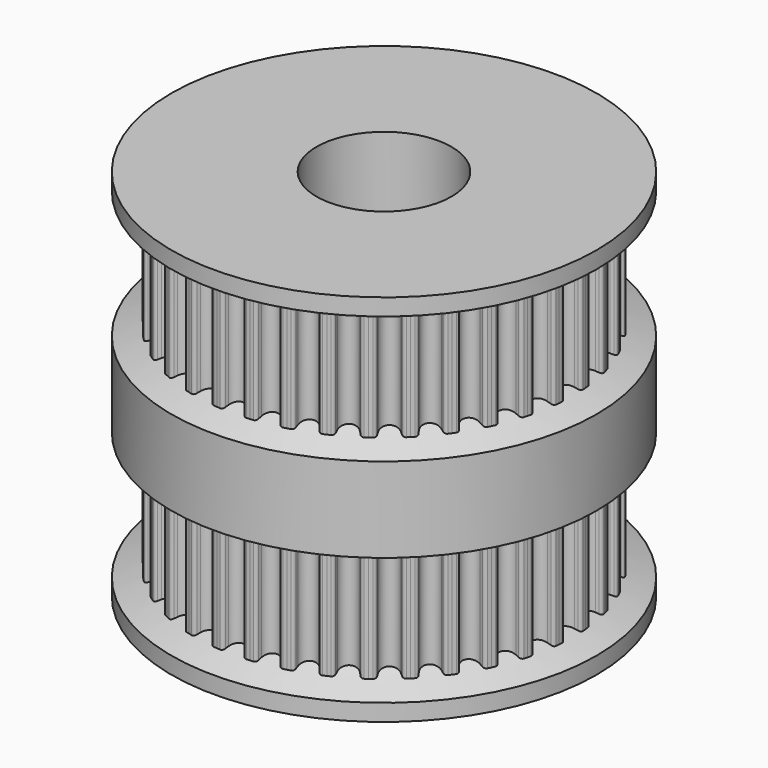
from build123d import *

# Parameters (mm, degrees)
F3_DEPTH = 11
F4_COUNT = 36
F7_R     = 4
F8_DEPTH = 50


with BuildPart() as f3:
    # F2 (on Top) → F3 (new body, symmetric)
    with BuildSketch(Plane.XY):
        with BuildLine():
            Line((0.9112268782, 10.4153708779), (0.9765936853, 11.1625169015))
            ThreePointArc((0.9765936853, 11.1625169015), (0.8760599377, 11.1708566273), (0.7754551833, 11.1782909275))
            ThreePointArc((0.7754551833, 11.1782909275), (0.6517529274, 11.1425545172), (0.5802680874, 11.0354599011))
            ThreePointArc((0.5802680874, 11.0354599011), (0.558049517, 10.9474029924), (0.5342352689, 10.859764156))
            ThreePointArc((0.5342352689, 10.859764156), (0.3350802744, 10.56772375), (0, 10.4551559026))
            ThreePointArc((0, 10.4551559026), (-0.3350802744, 10.56772375), (-0.5342352689, 10.859764156))
            ThreePointArc((-0.5342352689, 10.859764156), (-0.558049517, 10.9474029924), (-0.5802680874, 11.0354599011))
            ThreePointArc((-0.5802680874, 11.0354599011), (-0.6517529274, 11.1425545172), (-0.7754551833, 11.1782909275))
            ThreePointArc((-0.7754551833, 11.1782909275), (-0.8760599377, 11.1708566273), (-0.9765936853, 11.1625169015))
            Line((-0.9765936853, 11.1625169015), (-0.9112268782, 10.4153708779))
            Line((-0.9112268782, 10.4153708779), (0, 0))
            Line((0, 0), (0.9112268782, 10.4153708779))
        make_face()
        with BuildLine():
            Line((0.9112268782, 10.4153708779), (0.9765936853, 11.1625169015))
            ThreePointArc((0.9765936853, 11.1625169015), (0.8760599377, 11.1708566273), (0.7754551833, 11.1782909275))
            ThreePointArc((0.7754551833, 11.1782909275), (0.6517529274, 11.1425545172), (0.5802680874, 11.0354599011))
            ThreePointArc((0.5802680874, 11.0354599011), (0.558049517, 10.9474029924), (0.5342352689, 10.859764156))
            ThreePointArc((0.5342352689, 10.859764156), (0.3350802744, 10.56772375), (0, 10.4551559026))
            ThreePointArc((0, 10.4551559026), (-0.3350802744, 10.56772375), (-0.5342352689, 10.859764156))
            ThreePointArc((-0.5342352689, 10.859764156), (-0.558049517, 10.9474029924), (-0.5802680874, 11.0354599011))
            ThreePointArc((-0.5802680874, 11.0354599011), (-0.6517529274, 11.1425545172), (-0.7754551833, 11.1782909275))
            ThreePointArc((-0.7754551833, 11.1782909275), (-0.8760599377, 11.1708566273), (-0.9765936853, 11.1625169015))
            Line((-0.9765936853, 11.1625169015), (-0.9112268782, 10.4153708779))
            Line((-0.9112268782, 10.4153708779), (0, 0))
            Line((0, 0), (0.9112268782, 10.4153708779))
        make_face()
        with BuildLine():
            Line((0.9112268782, 10.4153708779), (0.9765936853, 11.1625169015))
            ThreePointArc((0.9765936853, 11.1625169015), (0.8760599377, 11.1708566273), (0.7754551833, 11.1782909275))
            ThreePointArc((0.7754551833, 11.1782909275), (0.6517529274, 11.1425545172), (0.5802680874, 11.0354599011))
            ThreePointArc((0.5802680874, 11.0354599011), (0.558049517, 10.9474029924), (0.5342352689, 10.859764156))
            ThreePointArc((0.5342352689, 10.859764156), (0.3350802744, 10.56772375), (0, 10.4551559026))
            ThreePointArc((0, 10.4551559026), (-0.3350802744, 10.56772375), (-0.5342352689, 10.859764156))
            ThreePointArc((-0.5342352689, 10.859764156), (-0.558049517, 10.9474029924), (-0.5802680874, 11.0354599011))
            ThreePointArc((-0.5802680874, 11.0354599011), (-0.6517529274, 11.1425545172), (-0.7754551833, 11.1782909275))
            ThreePointArc((-0.7754551833, 11.1782909275), (-0.8760599377, 11.1708566273), (-0.9765936853, 11.1625169015))
            Line((-0.9765936853, 11.1625169015), (-0.9112268782, 10.4153708779))
            Line((-0.9112268782, 10.4153708779), (0, 0))
            Line((0, 0), (0.9112268782, 10.4153708779))
        make_face()
    extrude(amount=F3_DEPTH, both=True)

    # F4: F3 ×36 about axis
    f4_axis = Axis((0, 0, 0), (0, 0, -1))


with BuildPart() as f3_1:
    add(f3.part)
    for i in range(1, F4_COUNT):
        add(f3.part.rotate(f4_axis, i * 360 / F4_COUNT))

    # F5 (on Front) → F6 (revolve)
    with BuildSketch(Plane.XZ):
        Polygon((12.6050714929, 11), (0, 11), (0, 9.217494719), (10.4551559026, 9.217494719), (12.6050714929, 10), align=None)
        Polygon((10.4551559026, 3.217494719), (0, 3.217494719), (0, -3.382505281), (10.4551559026, -3.382505281), (12.6050714929, -2.6), (12.6050714929, 2.4349894379), align=None)
        Polygon((10.4551559026, -9.382505281), (0, -9.382505281), (0, -11.1650105621), (12.6050714929, -11.1650105621), (12.6050714929, -10.1650105621), align=None)
    revolve(axis=Axis((0, 0, -0.082505281), (0, 0, 1)))

    # F7 (on Top) → F8 (cut, symmetric)
    with BuildSketch(Plane.XY):
        Circle(F7_R)
    extrude(amount=F8_DEPTH, both=True, mode=Mode.SUBTRACT)


solid = f3_1.part
